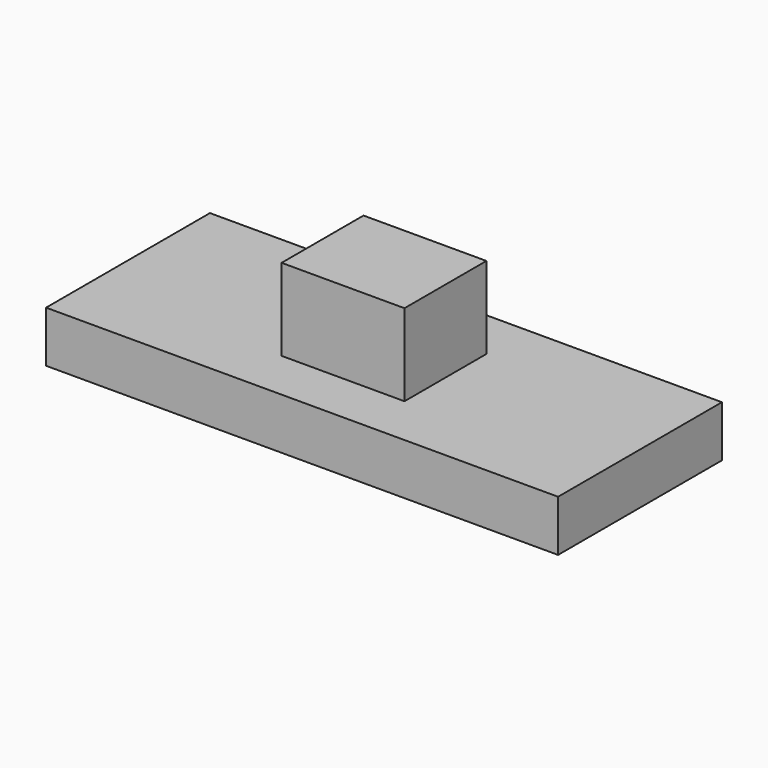
from build123d import *

# Parameters (mm, degrees)
F0_W     = 7620
F0_H     = 3048
F1_DEPTH = 762
F2_W     = 1828.8
F2_H     = 1524
F3_DEPTH = 1219.2


with BuildPart() as f1:
    # F0 (on Top) → F1 (new body)
    with BuildSketch(Plane.XY):
        Rectangle(F0_W, F0_H)
    extrude(amount=F1_DEPTH)


with BuildPart() as f3:
    # F2 (on face) → F3 (new body)
    with BuildSketch(Plane.XY.offset(762)):
        Rectangle(F2_W, F2_H)
    extrude(amount=F3_DEPTH)


solid = Compound([f1.part, f3.part])
